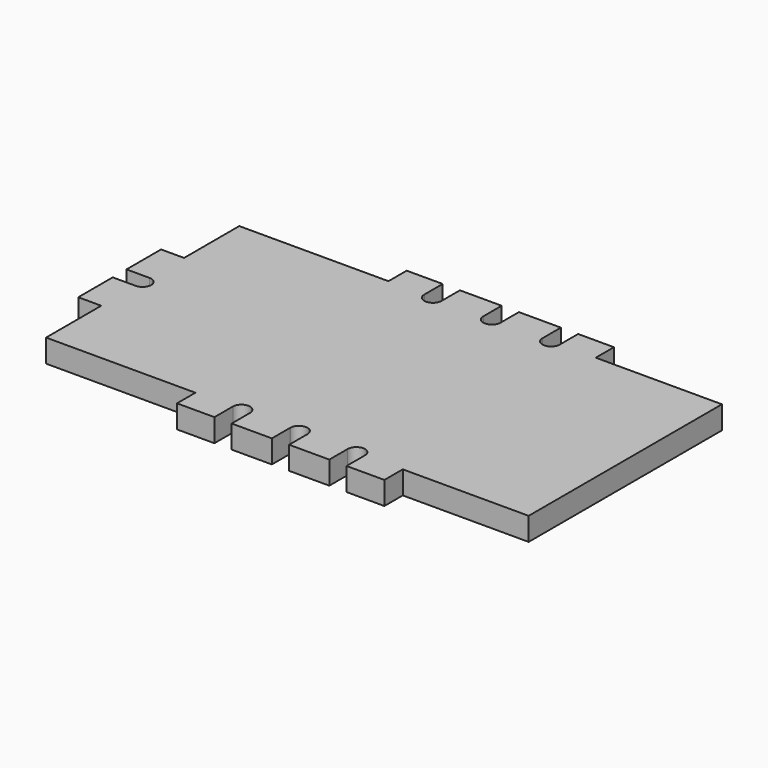
from build123d import *

# Parameters (mm, degrees)
F0_W      = 279.4
F0_H      = 158.75
F1_DEPTH  = 12.7
F2_W      = 12.7
F2_H      = 50.8
F3_DEPTH  = 12.701
F5_DEPTH  = 12.701
F6_W      = 69.85
F6_H      = 12.7
F6_W_2    = 82.55
F7_DEPTH  = 12.701
F9_DEPTH  = 12.701
F10_DEPTH = 12.701


with BuildPart() as f1:
    # F0 (on Top) → F1 (new body)
    with BuildSketch(Plane.XY):
        with Locations((139.7, 79.375)):
            Rectangle(F0_W, F0_H)
    extrude(amount=-F1_DEPTH)

    # F2 (on Top) → F3 (cut, through all)
    with BuildSketch(Plane.XY):
        with Locations((6.35, 133.423964)):
            Rectangle(F2_W, F2_H)
        with Locations((6.35, 25.4)):
            Rectangle(F2_W, F2_H)
    extrude(amount=-F3_DEPTH, mode=Mode.SUBTRACT)

    # F4 (on Top) → F5 (cut, through all)
    with BuildSketch(Plane.XY):
        with BuildLine():
            Line((0, 74.611429), (12.700348, 74.6125))
            ThreePointArc((12.700348, 74.6125), (17.462176, 79.425701), (12.598951, 84.136429))
            Line((12.598951, 84.136429), (0, 84.136429))
            Line((0, 84.136429), (0, 74.611429))
        make_face()
    extrude(amount=-F5_DEPTH, mode=Mode.SUBTRACT)

    # F6 (on Top) → F7 (cut, through all)
    with BuildSketch(Plane.XY):
        with Locations((244.747044, 6.35)):
            Rectangle(F6_W, F6_H)
        with Locations((53.942362, 6.35)):
            Rectangle(F6_W_2, F6_H)
        with Locations((53.887489, 152.495061)):
            Rectangle(F6_W_2, F6_H)
        with Locations((244.602786, 152.552579)):
            Rectangle(F6_W, F6_H)
    extrude(amount=-F7_DEPTH, mode=Mode.SUBTRACT)

    # F8 (on Top) → F9 (cut, through all)
    with BuildSketch(Plane.XY):
        with BuildLine():
            Line((147.625268, 158.788487), (147.637502, 146.045427))
            ThreePointArc((147.637502, 146.045427), (152.40284, 141.287501), (157.1625, 146.051108))
            Line((157.1625, 146.051108), (157.1625, 158.788487))
            Line((157.1625, 158.788487), (147.625268, 158.788487))
        make_face()
        with BuildLine():
            Line((157.159752, 0), (157.159752, 12.538237))
            ThreePointArc((157.159752, 12.538237), (152.493737, 17.461577), (147.637569, 12.725692))
            ThreePointArc((147.637569, 12.725692), (147.6375, 12.7), (147.637569, 12.674308))
            Line((147.637569, 12.674308), (147.637569, 0))
            Line((147.637569, 0), (157.159752, 0))
        make_face()
    extrude(amount=-F9_DEPTH, mode=Mode.SUBTRACT)

    # F8 (on Top) → F10 (cut, through all)
    with BuildSketch(Plane.XY):
        with BuildLine():
            Line((157.159752, 0), (157.159752, 12.538237))
            ThreePointArc((157.159752, 12.538237), (152.493737, 17.461577), (147.637569, 12.725692))
            ThreePointArc((147.637569, 12.725692), (147.6375, 12.7), (147.637569, 12.674308))
            Line((147.637569, 12.674308), (147.637569, 0))
            Line((147.637569, 0), (157.159752, 0))
        make_face()
        with BuildLine():
            Line((188.9125, 0), (188.9125, 12.7))
            ThreePointArc((188.9125, 12.7), (184.15, 17.4625), (179.3875, 12.7))
            Line((179.3875, 12.7), (179.3875, 0))
            Line((179.3875, 0), (188.9125, 0))
        make_face()
        with BuildLine():
            Line((125.4125, 0), (125.4125, 12.7))
            ThreePointArc((125.4125, 12.7), (120.65, 17.4625), (115.8875, 12.7))
            Line((115.8875, 12.7), (115.8875, 0))
            Line((115.8875, 0), (125.4125, 0))
        make_face()
        with BuildLine():
            Line((115.036184, 158.751108), (115.03323, 146.051108))
            ThreePointArc((115.03323, 146.051108), (119.795176, 141.2875), (124.55823, 146.05))
            Line((124.55823, 146.05), (124.55823, 158.751108))
            Line((124.55823, 158.751108), (115.036184, 158.751108))
        make_face()
        with BuildLine():
            Line((147.625268, 158.788487), (147.637502, 146.045427))
            ThreePointArc((147.637502, 146.045427), (152.40284, 141.287501), (157.1625, 146.051108))
            Line((157.1625, 146.051108), (157.1625, 158.788487))
            Line((157.1625, 158.788487), (147.625268, 158.788487))
        make_face()
        with BuildLine():
            Line((180.360956, 158.751108), (180.363911, 146.05))
            ThreePointArc((180.363911, 146.05), (185.126964, 141.2875), (189.88891, 146.051108))
            Line((189.88891, 146.051108), (189.885956, 158.751108))
            Line((189.885956, 158.751108), (180.360956, 158.751108))
        make_face()
    extrude(amount=-F10_DEPTH, mode=Mode.SUBTRACT)


solid = f1.part
